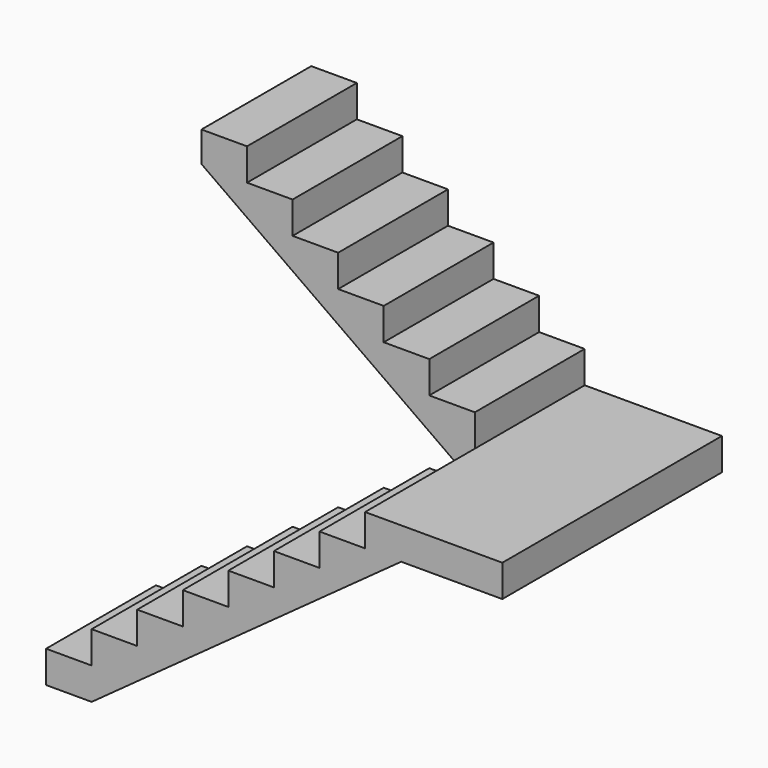
from build123d import *

# Parameters (mm, degrees)
F1_DEPTH = 63.5
F2_DEPTH = 63.5


with BuildPart() as f1:
    # F0 (on Front) → F1 (new body)
    with BuildSketch(Plane.XZ):
        Polygon((-177.549966, -85.353864), (-177.549966, -100.162064), (-156.467966, -100.162064), (-13.263665, 3.495336), (-29.975966, 3.495336), (-51.057966, 3.495336), (-51.057966, -11.312864), (-72.139966, -11.312864), (-72.139966, -26.121064), (-93.221966, -26.121064), (-93.221966, -40.929264), (-114.303966, -40.929264), (-114.303966, -55.737464), (-135.385966, -55.737464), (-135.385966, -70.545664), (-156.467966, -70.545664), (-156.467966, -85.353864), align=None)
        Polygon((-29.975966, 3.495336), (-13.263665, 3.495336), (33.524034, 3.495336), (33.524034, 18.303536), (-29.975966, 18.303536), align=None)
    extrude(amount=F1_DEPTH)

    # F0 (on Front) → F2 (join)
    with BuildSketch(Plane.XZ):
        Polygon((-156.467966, 93.080176), (-29.975966, 3.495336), (-29.975966, 18.303536), (-29.975966, 33.111736), (-51.057966, 33.111736), (-51.057966, 47.919936), (-72.139966, 47.919936), (-72.139966, 62.728136), (-93.221966, 62.728136), (-93.221966, 77.536336), (-114.303966, 77.536336), (-114.303966, 92.344536), (-135.385966, 92.344536), (-135.385966, 107.152736), (-156.467966, 107.152736), align=None)
        Polygon((-29.975966, 3.495336), (-13.263665, 3.495336), (33.524034, 3.495336), (33.524034, 18.303536), (-29.975966, 18.303536), align=None)
    extrude(amount=-F2_DEPTH)


solid = f1.part
